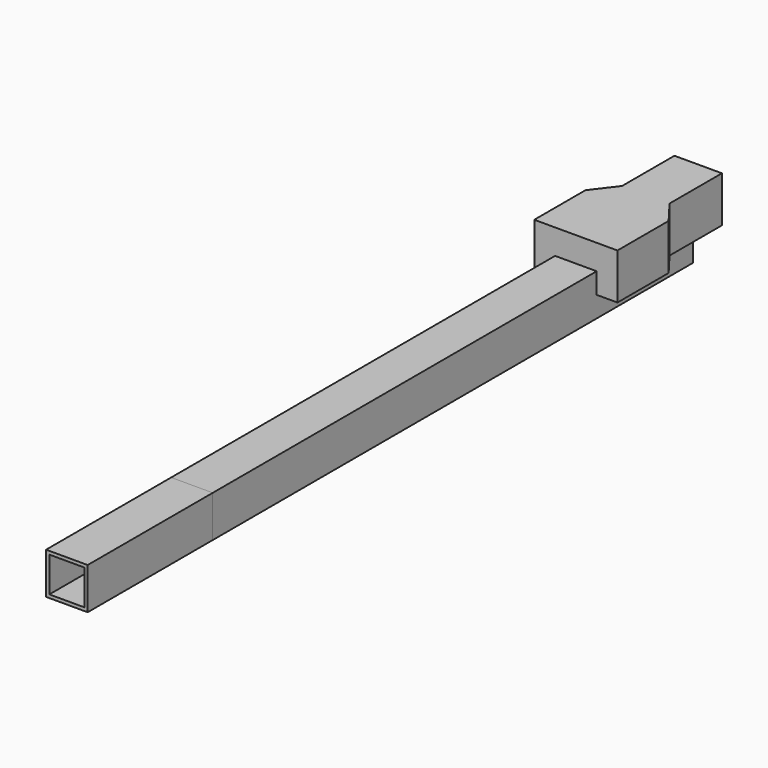
from build123d import *

# Parameters (mm, degrees)
F0_W     = 25.4
F0_H     = 25.4
F1_DEPTH = 462
F2_T     = -2
F3_DEPTH = 366.5
F4_T     = -2
F5_W     = 29
F5_H     = 40
F6_DEPTH = 28


with BuildPart() as f1:
    # F0 (on Front) → F1 (new body)
    with BuildSketch(Plane.XZ):
        Rectangle(F0_W, F0_H)
    extrude(amount=F1_DEPTH)

    # F2
    f2_openings = [f1.faces().sort_by_distance(p)[0] for p in [
        (0, -462, 0),
    ]]
    offset(amount=F2_T, openings=f2_openings)


with BuildPart() as f3:
    # F0 (on Front) → F3 (new body)
    with BuildSketch(Plane.XZ):
        Rectangle(F0_W, F0_H)
    extrude(amount=F3_DEPTH)

    # F4
    f4_openings = [f3.faces().sort_by_distance(p)[0] for p in [
        (0, -366.5, 0),
        (0, 0, 0),
    ]]
    offset(amount=F4_T, openings=f4_openings)


with BuildPart() as f6:
    # F5 (on Top) → F6 (new body)
    with BuildSketch(Plane.XY):
        Rectangle(F5_W, F5_H)
        Polygon((14.5, -20), (-14.5, -20), (-25.4, -34.322258085), (-25.4, -73.387689568), (25.4, -73.387689568), (25.4, -34.322258085), align=None)
    extrude(amount=F6_DEPTH)


solid = Compound([f1.part, f3.part, f6.part])
